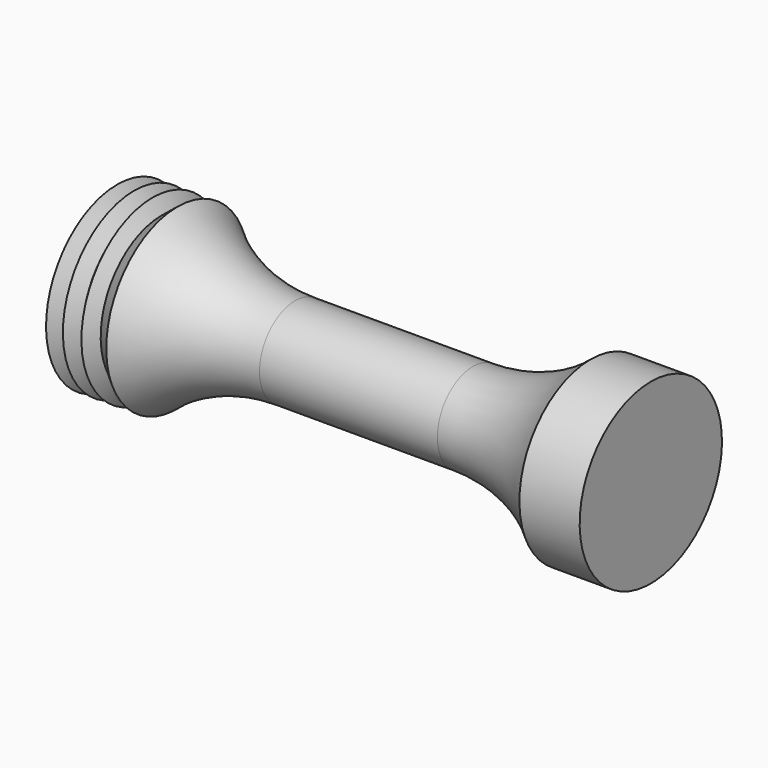
from build123d import *


with BuildPart() as f1:
    # F0 (on Front) → F1 (revolve)
    with BuildSketch(Plane.XZ):
        with BuildLine():
            Line((-77.672519, 50.8), (-77.672519, 0))
            Line((-77.672519, 0), (227.127481, 0))
            Line((227.127481, 0), (227.127481, 50.8))
            Line((227.127481, 50.8), (192.729565, 50.8))
            ThreePointArc((192.729565, 50.8), (161.448506, 31.961902), (125.527481, 25.4))
            Line((125.527481, 25.4), (23.927481, 25.4))
            ThreePointArc((23.927481, 25.4), (-11.993543, 31.961902), (-43.274602, 50.8))
            Line((-43.274602, 50.8), (-52.386712, 43.397114))
            Line((-52.386712, 43.397114), (-57.462692, 50.8))
            Line((-57.462692, 50.8), (-62.538676, 43.397114))
            Line((-62.538676, 43.397114), (-68.037651, 50.8))
            Line((-68.037651, 50.8), (-72.690636, 43.397114))
            Line((-72.690636, 43.397114), (-77.672519, 50.8))
        make_face()
    revolve(axis=Axis((74.727481, 0, 0), (1, 0, 0)))


solid = f1.part
